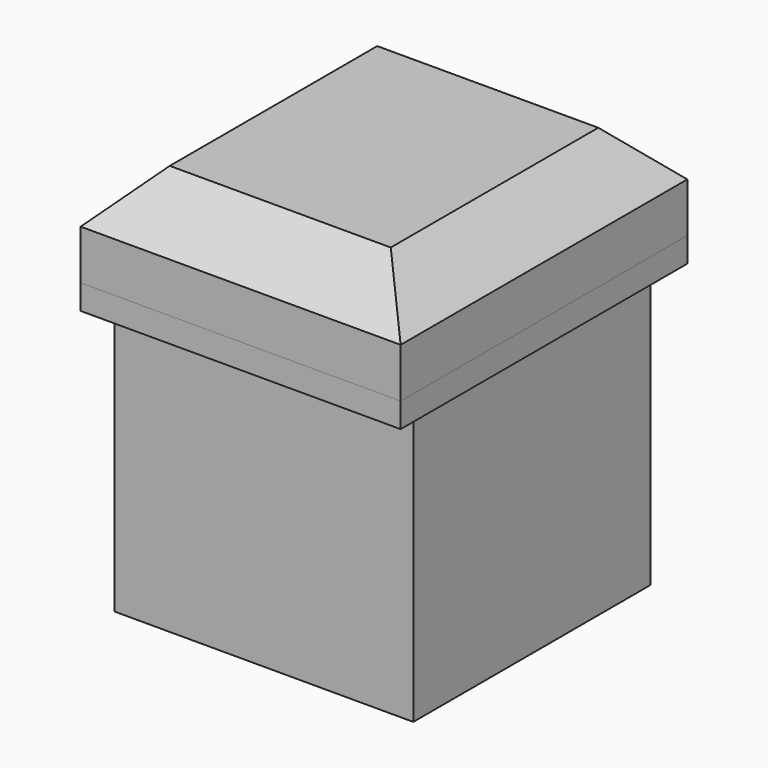
from build123d import *

# Parameters (mm, degrees)
F0_W     = 76.630168
F0_H     = 76.136313
F1_DEPTH = 76.2
F2_T     = -2.54
F3_W     = 82.124954
F3_H     = 91.969022
F3_W_2   = 76.630168
F3_H_2   = 76.136313
F4_DEPTH = 6.35
F5_W     = 82.124954
F5_H     = 91.969022
F6_DEPTH = 25.4
F7_SIZE  = 12.7


with BuildPart() as f1:
    # F0 (on Top) → F1 (new body)
    with BuildSketch(Plane.XY):
        with Locations((38.315084, 38.068157)):
            Rectangle(F0_W, F0_H)
    extrude(amount=F1_DEPTH)

    # F2
    f2_openings = [f1.faces().sort_by_distance(p)[0] for p in [
        (38.315084, 38.068157, 76.2),
    ]]
    offset(amount=F2_T, openings=f2_openings)


with BuildPart() as f4:
    # F3 (on face) → F4 (new body)
    with BuildSketch(Plane.XY.offset(76.2)):
        with Locations((38.027261, 38.844991)):
            Rectangle(F3_W, F3_H)
        with Locations((38.315084, 38.068157)):
            Rectangle(F3_W_2, F3_H_2, mode=Mode.SUBTRACT)
    extrude(amount=-F4_DEPTH)


with BuildPart() as f6:
    # F5 (on face) → F6 (new body)
    with BuildSketch(Plane.XY.offset(76.2)):
        with Locations((38.027261, 38.844991)):
            Rectangle(F5_W, F5_H)
    extrude(amount=F6_DEPTH)

    # F7
    f7_edges = [f6.edges().sort_by_distance(p)[0] for p in [
        (38.027261, -7.13952, 101.6),
        (-3.035216, 38.844991, 101.6),
        (38.027261, 84.829502, 101.6),
        (79.089738, 38.844991, 101.6),
    ]]
    chamfer(f7_edges, length=F7_SIZE)


solid = Compound([f1.part, f4.part, f6.part])
